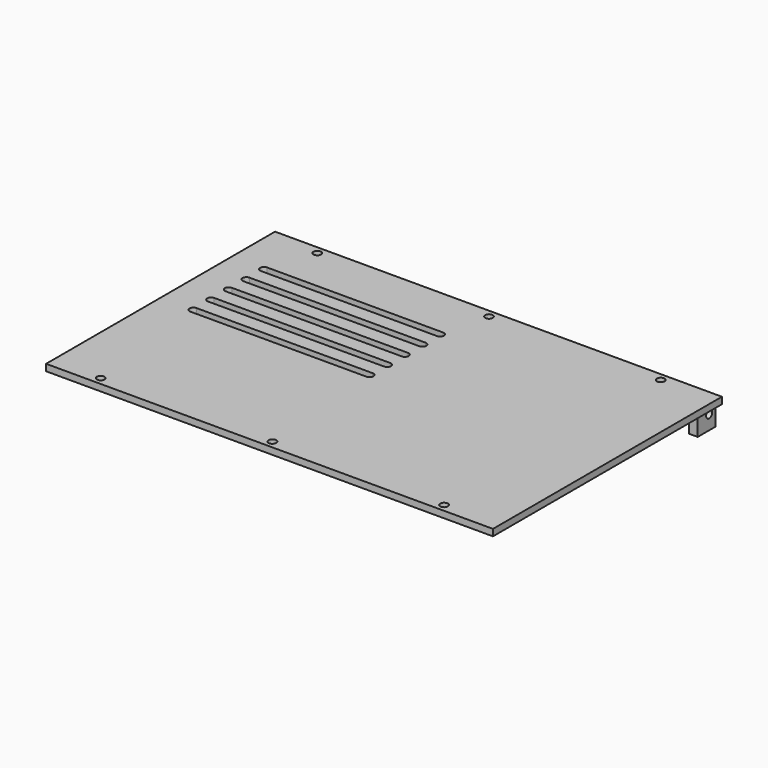
from build123d import *

# Parameters (mm, degrees)
SKETCH_W        = 203
SKETCH_H        = 130
SKETCH_R        = 1.75
PAD_DEPTH       = 3
SKETCH001_W     = 4
SKETCH001_H     = 10
PAD001_DEPTH    = 10
SKETCH002_R     = 1.75
SKETCH002_W     = 95
SKETCH002_H     = 4
POCKET_DEPTH    = 225
SKETCH003_R     = 1.75
POCKET001_DEPTH = 200.001


with BuildPart() as part:
    # Sketch → Pad (new body)
    with BuildSketch(Plane.XY):
        with Locations((101.5, 65)):
            Rectangle(SKETCH_W, SKETCH_H)
        with Locations((22, 126.5)):
            Circle(SKETCH_R, mode=Mode.SUBTRACT)
        with Locations((100, 126.5)):
            Circle(SKETCH_R, mode=Mode.SUBTRACT)
        with Locations((178, 126.5)):
            Circle(SKETCH_R, mode=Mode.SUBTRACT)
        with Locations((22, 3.5)):
            Circle(SKETCH_R, mode=Mode.SUBTRACT)
        with Locations((100, 3.5)):
            Circle(SKETCH_R, mode=Mode.SUBTRACT)
        with Locations((178, 3.5)):
            Circle(SKETCH_R, mode=Mode.SUBTRACT)
        with BuildLine():
            ThreePointArc((15, 106.75), (13.25, 105), (15, 103.25))
            Line((15, 103.25), (95, 103.25))
            ThreePointArc((95, 103.25), (96.75, 105), (95, 106.75))
            Line((15, 106.75), (95, 106.75))
        make_face(mode=Mode.SUBTRACT)
        with BuildLine():
            ThreePointArc((14.985188, 96.750011), (13.235188, 95.000011), (14.985188, 93.250011))
            Line((14.985188, 93.250011), (94.985188, 93.250011))
            ThreePointArc((94.985188, 93.250011), (96.735188, 95.000011), (94.985188, 96.750011))
            Line((14.985188, 96.750011), (94.985188, 96.750011))
        make_face(mode=Mode.SUBTRACT)
        with BuildLine():
            ThreePointArc((14.970376, 86.750022), (13.220376, 85.000022), (14.970376, 83.250022))
            Line((14.970376, 83.250022), (94.970376, 83.250022))
            ThreePointArc((94.970376, 83.250022), (96.720376, 85.000022), (94.970376, 86.750022))
            Line((14.970376, 86.750022), (94.970376, 86.750022))
        make_face(mode=Mode.SUBTRACT)
        with BuildLine():
            ThreePointArc((14.955564, 76.750033), (13.205564, 75.000033), (14.955564, 73.250033))
            Line((14.955564, 73.250033), (94.955564, 73.250033))
            ThreePointArc((94.955564, 73.250033), (96.705564, 75.000033), (94.955564, 76.750033))
            Line((14.955564, 76.750033), (94.955564, 76.750033))
        make_face(mode=Mode.SUBTRACT)
        with BuildLine():
            ThreePointArc((14.940752, 66.750044), (13.190752, 65.000044), (14.940752, 63.250044))
            Line((14.940752, 63.250044), (94.940752, 63.250044))
            ThreePointArc((94.940752, 63.250044), (96.690752, 65.000044), (94.940752, 66.750044))
            Line((14.940752, 66.750044), (94.940752, 66.750044))
        make_face(mode=Mode.SUBTRACT)
    extrude(amount=-PAD_DEPTH)

    # Sketch001 (on DatumPlane) → Pad001 (join)
    with BuildSketch(Plane.XY.offset(-3)):
        with Locations((198, 125)):
            Rectangle(SKETCH001_W, SKETCH001_H)
        with Locations((5, 125)):
            Rectangle(SKETCH001_W, SKETCH001_H)
    extrude(amount=-PAD001_DEPTH)

    # Sketch002 → Pocket (cut)
    with BuildSketch(Plane.YZ.offset(107)):
        with Locations((-51, 7)):
            Circle(SKETCH002_R)
        with Locations((61, 7)):
            Circle(SKETCH002_R)
        with Locations((7.5, 11)):
            Rectangle(SKETCH002_W, SKETCH002_H)
    extrude(amount=-POCKET_DEPTH, mode=Mode.SUBTRACT)

    # Sketch003 (on DatumPlane) → Pocket001 (cut, through all)
    with BuildSketch(Plane.YZ.offset(3)):
        with Locations((126.5, -6.5)):
            Circle(SKETCH003_R)
    extrude(amount=POCKET001_DEPTH, mode=Mode.SUBTRACT)


solid = part.part
